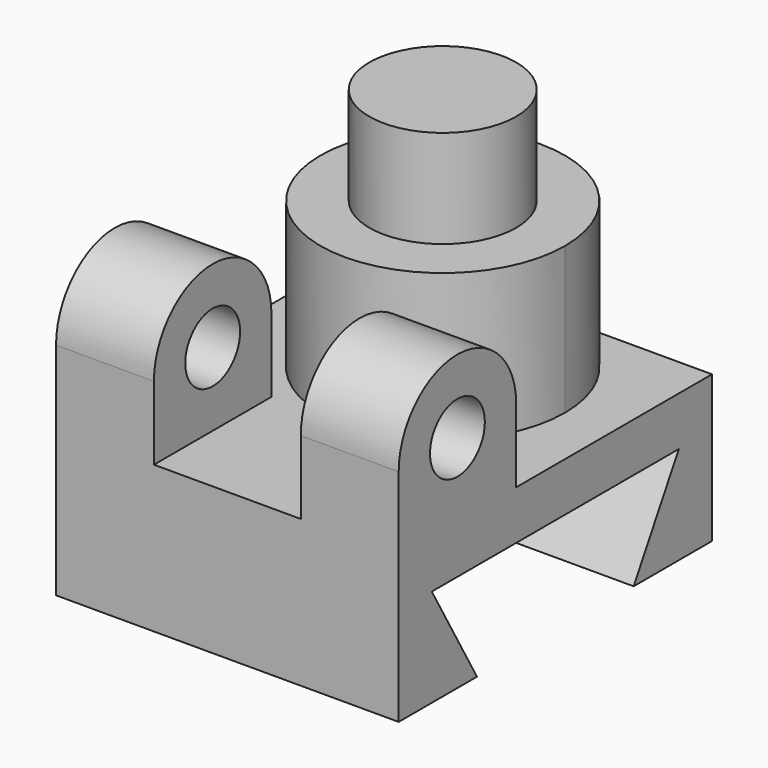
from build123d import *

# Parameters (mm, degrees)
F1_DEPTH = 35
F2_R     = 7
F3_DEPTH = 20
F6_DEPTH = 30
F7_R     = 15
F8_DEPTH = 20


with BuildPart() as f1:
    # F0 (on Right) → F1 (new body, symmetric)
    with BuildSketch(Plane.YZ):
        Polygon((-40, 0), (-20, 0), (-31.5470053838, 20), (31.5470053838, 20), (20, 0), (40, 0), (40, 30), (-40, 30), align=None)
    extrude(amount=F1_DEPTH, both=True)

    # F2 (on face) → F3 (join)
    with BuildSketch(Plane.YZ.offset(35)):
        with BuildLine():
            Line((-10, 30), (-10, 45))
            ThreePointArc((-10, 45), (-25, 60), (-40, 45))
            Line((-40, 45), (-40, 30))
            Line((-40, 30), (-10, 30))
        make_face()
        with Locations((-25, 45)):
            Circle(F2_R, mode=Mode.SUBTRACT)
    extrude(amount=-F3_DEPTH)

    # F4: F1 across plane


with BuildPart() as f1_1:
    add(f1.part)
    add(f1.part.mirror(Plane.YZ))

    # F5 (on face) → F6 (join)
    with BuildSketch(Plane.XY.offset(30)):
        with BuildLine():
            ThreePointArc((3.22e-08, 40), (-17.6776695411, -2.6776695183), (25, 15))
            ThreePointArc((25, 15), (17.6776695411, 32.6776695183), (3.22e-08, 40))
        make_face()
    extrude(amount=F6_DEPTH)

    # F7 (on face) → F8 (join)
    with BuildSketch(Plane.XY.offset(60)):
        with Locations((0, 15)):
            Circle(F7_R)
    extrude(amount=F8_DEPTH)


solid = f1_1.part
